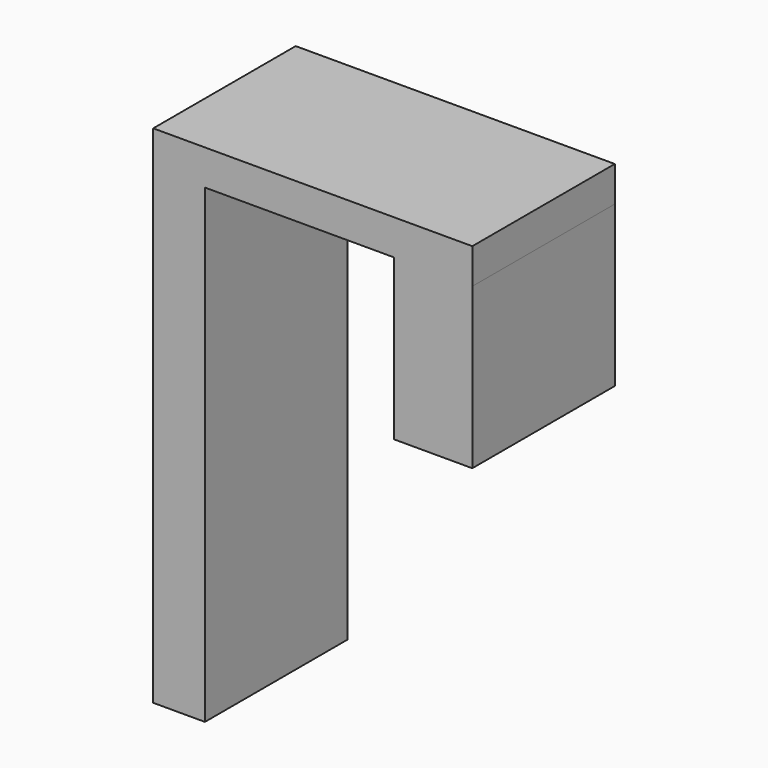
from build123d import *

# Parameters (mm, degrees)
F0_W     = 11.614211
F0_H     = 105.660983
F0_W_2   = 17.562951
F0_H_2   = 35.975726
F1_DEPTH = 40


with BuildPart() as f1:
    # F0 (on Front) → F1 (new body)
    with BuildSketch(Plane.XZ):
        Polygon((-64.444698, 53.397033), (-64.444698, 45.465384), (-52.830487, 45.465384), (-10.339479, 45.465384), (7.223472, 45.465384), (7.223472, 53.397033), align=None)
        with Locations((-58.637592, -7.365107)):
            Rectangle(F0_W, F0_H)
        with Locations((-1.558003, 27.477521)):
            Rectangle(F0_W_2, F0_H_2)
    extrude(amount=F1_DEPTH)


solid = f1.part
